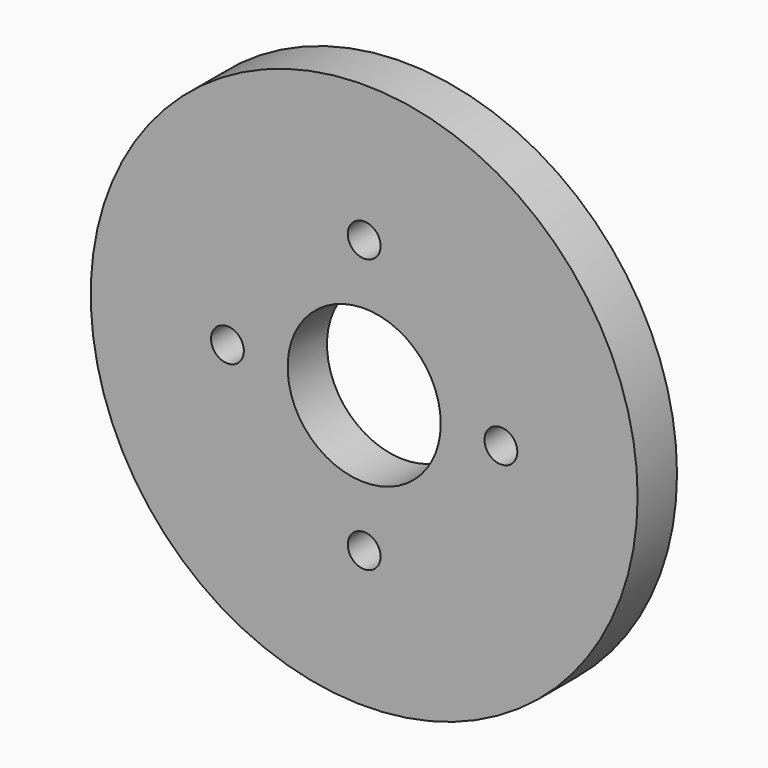
from build123d import *

# Parameters (mm, degrees)
F0_R     = 100
F0_R_2   = 28
F1_DEPTH = 18
F2_D     = 12


with BuildPart() as f1:
    # F0 (on Front) → F1 (new body)
    with BuildSketch(Plane.XZ):
        Circle(F0_R)
        Circle(F0_R_2, mode=Mode.SUBTRACT)
    extrude(amount=F1_DEPTH)

    # F2 (through all)
    with Locations(Plane(origin=(0, 0, 0), x_dir=(1, 0, 0), z_dir=(0, 1, 0))):
        with Locations((0, 50), (50, 0), (0, -50), (-50, 0)):
            Hole(F2_D / 2)


solid = f1.part
